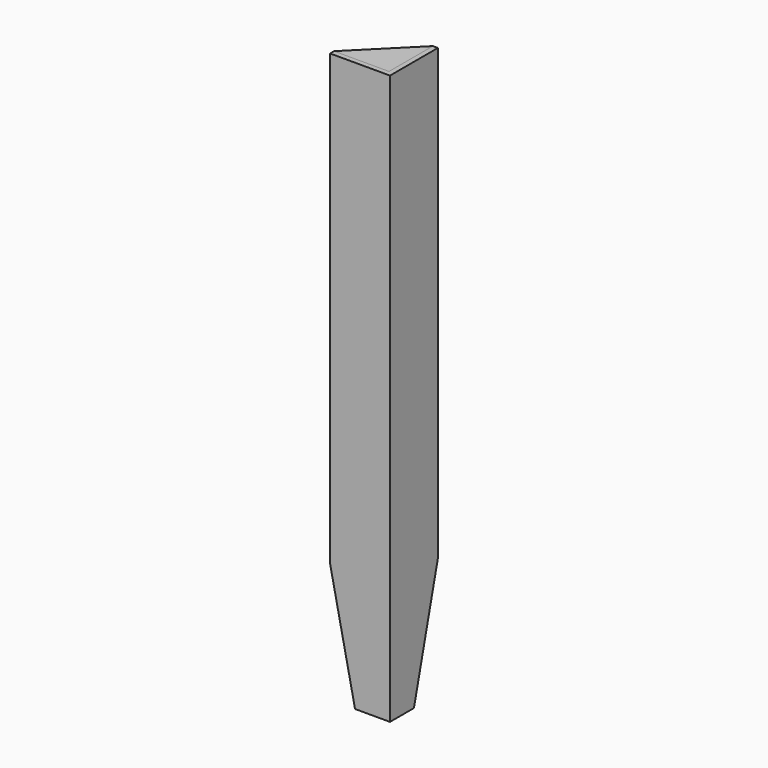
from build123d import *

# Parameters (mm, degrees)
F1_DEPTH = 6.35
F3_DEPTH = 6.35
F5_DEPTH = 6.35


with BuildPart() as f1:
    # F0 (on Right) → F1 (new body)
    with BuildSketch(Plane.YZ):
        Polygon((0, 723.9), (0, 0), (38.1, 0), (76.2, 152.4), (76.2, 723.9), align=None)
    extrude(amount=F1_DEPTH)

    # F2 (on Front) → F3 (join)
    with BuildSketch(Plane.XZ):
        Polygon((-38.1, 0), (6.35, 0), (6.35, 723.9), (-69.85, 723.9), (-69.85, 152.4), align=None)
    extrude(amount=-F3_DEPTH)


with BuildPart() as f5:
    # F4 (on face) → F5 (new body)
    with BuildSketch(Plane.XY.offset(723.9)):
        Polygon((0, 76.2), (-69.85, 6.35), (0, 6.35), align=None)
    extrude(amount=-F5_DEPTH)


solid = Compound([f1.part, f5.part])
